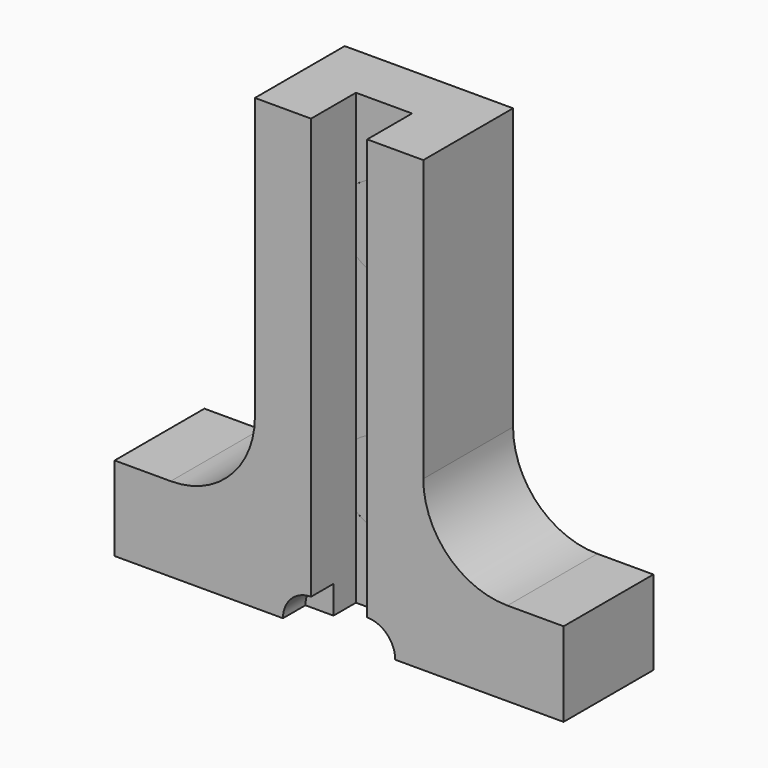
from build123d import *

# Parameters (mm, degrees)
F1_DEPTH  = 6.35
F0_W      = 6.35
F0_H      = 50.8
F2_DEPTH  = 6.35
F4_R      = 9.525
F5_R      = 4.7625
F6_DEPTH  = 6.35
F7_DEPTH  = 1.5875
F9_DEPTH  = 3.175
F11_DEPTH = 3.175
F12_DEPTH = 1.5875
F13_R     = 4.7625
F14_DEPTH = 4.7625
F15_DEPTH = 4.7625


with BuildPart() as f1:
    # F0 (on Front) → F1 (new body)
    with BuildSketch(Plane.XZ):
        Polygon((-3.175, -25.4), (-3.175, 25.4), (-9.525, 25.4), (-9.525, -15.875), (-25.4, -15.875), (-25.4, -25.4), align=None)
    extrude(amount=F1_DEPTH)


with BuildPart() as f1b:
    # F0 (on Front) → F1, piece 2 (new body)
    with BuildSketch(Plane.XZ):
        Polygon((9.525, -15.875), (9.525, 25.4), (3.175, 25.4), (3.175, -25.4), (25.4, -25.4), (25.4, -15.875), align=None)
    extrude(amount=F1_DEPTH)


with BuildPart() as f2:
    # F0 (on Front) → F2 (new body)
    with BuildSketch(Plane.XZ):
        Polygon((9.525, -15.875), (9.525, 25.4), (3.175, 25.4), (3.175, -25.4), (25.4, -25.4), (25.4, -15.875), align=None)
        Rectangle(F0_W, F0_H)
        Polygon((-3.175, -25.4), (-3.175, 25.4), (-9.525, 25.4), (-9.525, -15.875), (-25.4, -15.875), (-25.4, -25.4), align=None)
    extrude(amount=-F2_DEPTH)


with BuildPart() as f1b_1:
    add(f1b.part)

    # F3: union F1, F2
    add(f1.part)
    add(f2.part)

    # F4
    f4_edges = [f1b_1.edges().sort_by_distance(p)[0] for p in [
        (9.525, 0, -15.875),
        (-9.525, 0, -15.875),
    ]]
    fillet(f4_edges, radius=F4_R)

    # F5 (on face) → F6 (cut)
    with BuildSketch(Plane(origin=(0, 6.35, 0), x_dir=(-1, 0, 0), z_dir=(0, 1, 0))):
        with Locations((1.8122e-05, 12.7107272731)):
            Circle(F5_R)
        with Locations((-1.8122e-05, -12.7107272731)):
            Circle(F5_R)
    extrude(amount=-F6_DEPTH, mode=Mode.SUBTRACT)

    # F5 (on face) → F7 (cut)
    with BuildSketch(Plane(origin=(0, 6.35, 0), x_dir=(-1, 0, 0), z_dir=(0, 1, 0))):
        with BuildLine():
            Line((6.35, -12.7107272731), (6.35, 12.6892727269))
            ThreePointArc((6.35, 12.6892727269), (0.0107454103, 19.060736334), (-6.35, 12.7107272731))
            Line((-6.35, 12.7107272731), (-6.35, -12.6892727269))
            ThreePointArc((-6.35, -12.6892727269), (-0.0107454103, -19.060736334), (6.35, -12.7107272731))
        make_face()
        with Locations((-1.8122e-05, -12.7107272731)):
            Circle(F5_R, mode=Mode.SUBTRACT)
        with Locations((1.8122e-05, 12.7107272731)):
            Circle(F5_R, mode=Mode.SUBTRACT)
    extrude(amount=-F7_DEPTH, mode=Mode.SUBTRACT)

    # F8 (on face) → F9 (cut)
    with BuildSketch(Plane.XZ.offset(6.35)):
        with BuildLine():
            Line((-3.175, -25.4), (-3.175, -22.225))
            ThreePointArc((-3.175, -22.225), (-5.4200640303, -23.1549359697), (-6.35, -25.4))
            Line((-6.35, -25.4), (-3.175, -25.4))
        make_face()
    extrude(amount=-F9_DEPTH, mode=Mode.SUBTRACT)

    # F10 (on face) → F11 (cut)
    with BuildSketch(Plane.XZ.offset(6.35)):
        with BuildLine():
            Line((3.175, -25.4), (6.35, -25.4))
            ThreePointArc((6.35, -25.4), (5.4200640303, -23.1549359697), (3.175, -22.225))
            Line((3.175, -22.225), (3.175, -25.4))
        make_face()
    extrude(amount=-F11_DEPTH, mode=Mode.SUBTRACT)


with BuildPart() as f12:
    # F5 (on face) → F12 (new body)
    with BuildSketch(Plane(origin=(0, 6.35, 0), x_dir=(-1, 0, 0), z_dir=(0, 1, 0))):
        with BuildLine():
            Line((6.35, -12.7107272731), (6.35, 12.6892727269))
            ThreePointArc((6.35, 12.6892727269), (0.0107454103, 19.060736334), (-6.35, 12.7107272731))
            Line((-6.35, 12.7107272731), (-6.35, -12.6892727269))
            ThreePointArc((-6.35, -12.6892727269), (-0.0107454103, -19.060736334), (6.35, -12.7107272731))
        make_face()
        with Locations((-1.8122e-05, -12.7107272731)):
            Circle(F5_R, mode=Mode.SUBTRACT)
        with Locations((1.8122e-05, 12.7107272731)):
            Circle(F5_R, mode=Mode.SUBTRACT)
        with Locations((1.8122e-05, 12.7107272731)):
            Circle(F5_R)
        with Locations((-1.8122e-05, -12.7107272731)):
            Circle(F5_R)
    extrude(amount=-F12_DEPTH)


with BuildPart() as f14:
    # F13 (on face) → F14 (new body)
    with BuildSketch(Plane(origin=(0, 4.7625, 0), x_dir=(-1, 0, 0), z_dir=(0, 1, 0))):
        with Locations((1.8122e-05, 12.7107272731)):
            Circle(F13_R)
    extrude(amount=-F14_DEPTH)


with BuildPart() as f15:
    # F13 (on face) → F15 (new body)
    with BuildSketch(Plane(origin=(0, 4.7625, 0), x_dir=(-1, 0, 0), z_dir=(0, 1, 0))):
        with Locations((-1.8122e-05, -12.7107272731)):
            Circle(F13_R)
    extrude(amount=-F15_DEPTH)


solid = Compound([f1b_1.part, f12.part, f14.part, f15.part])
